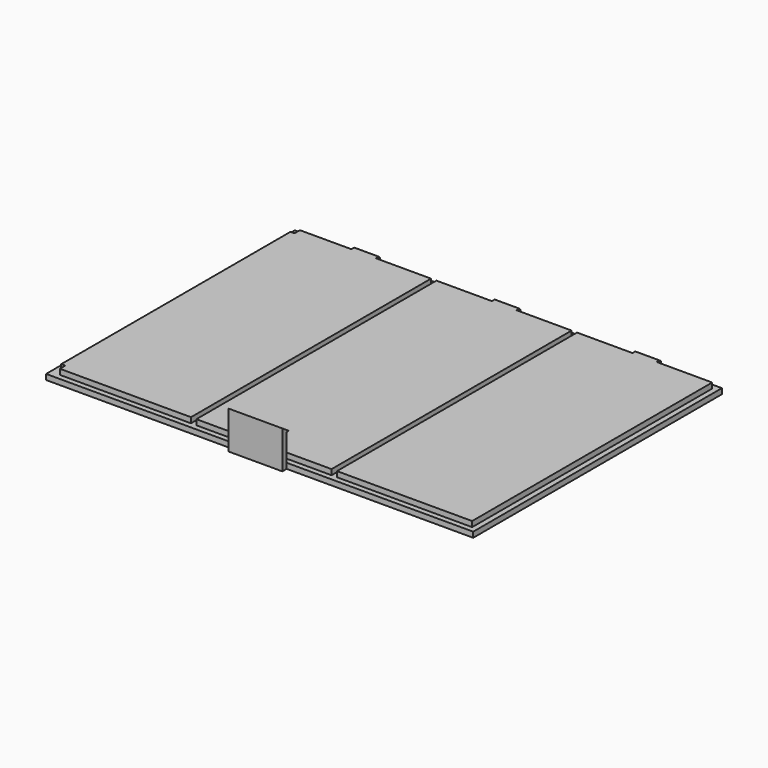
from build123d import *

# Parameters (mm, degrees)
F0_W      = 158
F0_H      = 115
F1_DEPTH  = 2
F2_W      = 9
F2_H      = 2
F3_DEPTH  = 2
F4_R      = 1
F17_W     = 1.5
F17_H     = 2.5
F18_DEPTH = 2
F19_W     = 20
F19_H     = 14
F20_DEPTH = 2
F22_DEPTH = 25


with BuildPart() as f1:
    # F0 (on Top) → F1 (new body)
    with BuildSketch(Plane.XY):
        with Locations((-98.6276573709, -38.6981162429)):
            Rectangle(F0_W, F0_H)
    extrude(amount=F1_DEPTH)

    # F2 (on face) → F3 (join)
    with BuildSketch(Plane.XY.offset(2)):
        Polygon((-155.1276573709, 16.8018837571), (-175.6276573709, 16.8018837571), (-175.6276573709, -94.1981162429), (-125.6276573709, -94.1981162429), (-125.6276573709, 16.8018837571), (-146.1276573709, 16.8018837571), align=None)
        with Locations((-150.6276573709, 17.8018837571)):
            Rectangle(F2_W, F2_H)
        Polygon((-103.1276573709, 16.8018837571), (-123.6276573709, 16.8018837571), (-123.6276573709, -94.1981162429), (-73.6276573709, -94.1981162429), (-73.6276573709, 16.8018837571), (-94.1276573709, 16.8018837571), align=None)
        with Locations((-98.6276573709, 17.8018837571)):
            Rectangle(F2_W, F2_H)
        Polygon((-51.1276573709, 16.8018837571), (-71.6276573709, 16.8018837571), (-71.6276573709, -94.1981162429), (-21.6276573709, -94.1981162429), (-21.6276573709, 16.8018837571), (-42.1276573709, 16.8018837571), align=None)
        with Locations((-46.6276573709, 17.8018837571)):
            Rectangle(F2_W, F2_H)
    extrude(amount=F3_DEPTH)

    # F4
    f4_edges = [f1.edges().sort_by_distance(p)[0] for p in [
        (-150.627657, 18.801884, 4),
        (-98.627657, 18.801884, 4),
        (-46.627657, 18.801884, 4),
    ]]
    fillet(f4_edges, radius=F4_R)

    # F5 (on face) → F6 (revolve, cut)
    with BuildSketch(Plane(origin=(-155.1276573709, 0, 0), x_dir=(0, -1, 0), z_dir=(-1, 0, 0))):
        with BuildLine():
            Line((-18.2392987821, 2.3907643347), (-17.368703077, 3.6122536226))
            ThreePointArc((-17.368703077, 3.6122536226), (-18.4126320707, 3.435300468), (-18.2392987821, 2.3907643347))
        make_face()
    revolve(axis=Axis((-155.1276573709, 17.8040009295, 3.0015089786), (0, -0.580400624, 0.8143310848)), mode=Mode.SUBTRACT)

    # F7 (on face) → F8 (revolve, cut)
    with BuildSketch(Plane.YZ.offset(-146.1276573709)):
        with BuildLine():
            ThreePointArc((18.497534939, 2.719697604), (18.5381711964, 2.8572386368), (18.5518837571, 3))
            ThreePointArc((18.5518837571, 3), (17.9358816289, 3.7379326327), (17.0997649028, 3.2636837395))
            Line((17.0997649028, 3.2636837395), (18.497534939, 2.719697604))
        make_face()
    revolve(axis=Axis((-146.1276573709, 17.7986499209, 2.9916906717), (0, -0.9319125504, 0.362683055)), mode=Mode.SUBTRACT)

    # F9 (on face) → F10 (revolve, cut)
    with BuildSketch(Plane(origin=(-103.1276573709, 0, 0), x_dir=(0, -1, 0), z_dir=(-1, 0, 0))):
        with BuildLine():
            Line((-18.2199622799, 2.3773360868), (-17.3826746537, 3.6219033105))
            ThreePointArc((-17.3826746537, 3.6219033105), (-18.4241676257, 3.4186439858), (-18.2199622799, 2.3773360868))
        make_face()
    revolve(axis=Axis((-103.1276573709, 17.8013184668, 2.9996196986), (0, -0.5581919811, 0.8297118248)), mode=Mode.SUBTRACT)

    # F11 (on face) → F12 (revolve, cut)
    with BuildSketch(Plane.YZ.offset(-94.1276573709)):
        with BuildLine():
            ThreePointArc((18.1709835579, 2.3471100115), (18.4496973301, 2.6220614141), (18.5518837571, 3))
            ThreePointArc((18.5518837571, 3), (18.1802362306, 3.647571931), (17.4336186749, 3.6533611782))
            Line((17.4336186749, 3.6533611782), (18.1709835579, 2.3471100115))
        make_face()
    revolve(axis=Axis((-94.1276573709, 17.8023011164, 3.0002355949), (0, -0.4915766891, 0.8708342889)), mode=Mode.SUBTRACT)

    # F13 (on face) → F14 (revolve, cut)
    with BuildSketch(Plane(origin=(-51.1276573709, 0, 0), x_dir=(0, -1, 0), z_dir=(-1, 0, 0))):
        with BuildLine():
            Line((-18.4692159742, 2.6577023049), (-17.133300999, 3.3398486363))
            ThreePointArc((-17.133300999, 3.3398486363), (-18.1429574959, 3.66795861), (-18.4692159742, 2.6577023049))
        make_face()
    revolve(axis=Axis((-51.1276573709, 17.8012584866, 2.9987754706), (0, -0.89061148, 0.4547649851)), mode=Mode.SUBTRACT)

    # F15 (on face) → F16 (revolve, cut)
    with BuildSketch(Plane.YZ.offset(-42.1276573709)):
        with BuildLine():
            Line((18.5518387793, 2.9917863059), (17.051928735, 2.9917863059))
            ThreePointArc((17.051928735, 2.9917863059), (17.8018837571, 2.25), (18.5518387793, 2.9917863059))
        make_face()
    revolve(axis=Axis((-42.1276573709, 17.8018837571, 2.9917863059), (0, -1, 0)), mode=Mode.SUBTRACT)

    # F17 (on face) → F18 (cut)
    with BuildSketch(Plane.XY.offset(4)):
        with Locations((-174.8776573709, 15.5518837571)):
            Rectangle(F17_W, F17_H)
        with Locations((-174.8776573709, -92.9481162429)):
            Rectangle(F17_W, F17_H)
    extrude(amount=-F18_DEPTH, mode=Mode.SUBTRACT)

    # F19 (on face) → F20 (join, symmetric)
    with BuildSketch(Plane.XZ.offset(96.1981162429)):
        with Locations((-98.6276573709, 7)):
            Rectangle(F19_W, F19_H)
    extrude(amount=F20_DEPTH, both=True)

    # F21 (on face) → F22 (cut)
    with BuildSketch(Plane(origin=(-108.6276573709, 0, 0), x_dir=(0, -1, 0), z_dir=(-1, 0, 0))):
        Polygon((94.1981162429, 12), (94.1981162429, 2), (96.1981162429, 2), (96.1981162429, 12), (95.1981162429, 12), align=None)
        Polygon((94.1981162429, 14), (94.1981162429, 12), (95.1981162429, 12), (98.1981162429, 14), align=None)
    extrude(amount=-F22_DEPTH, mode=Mode.SUBTRACT)


solid = f1.part
